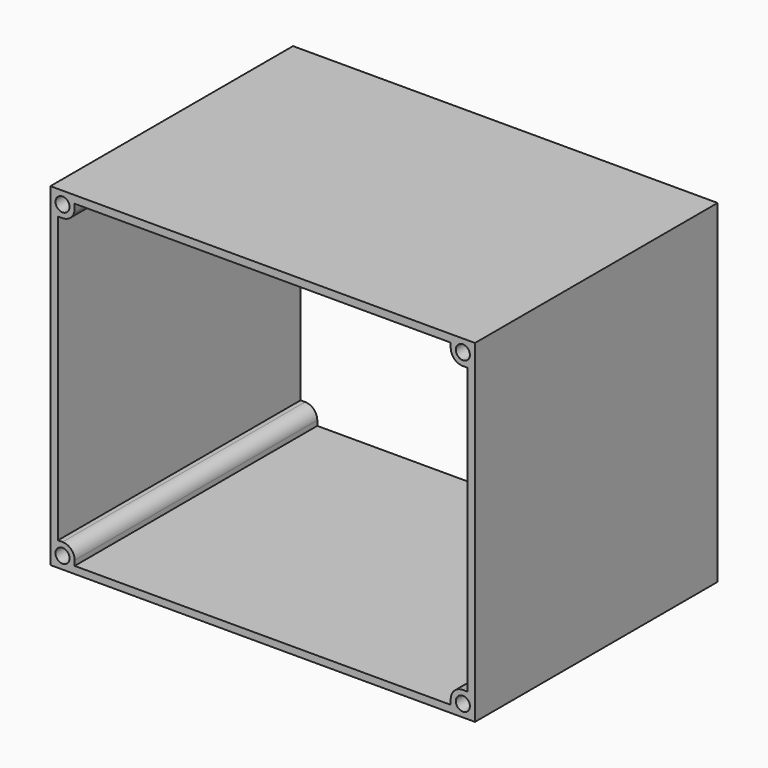
from build123d import *

# Parameters (mm, degrees)
F0_R     = 1.4732
F1_DEPTH = 31.75


with BuildPart() as f1:
    # F0 (on Front) → F1 (new body, symmetric)
    with BuildSketch(Plane.XZ):
        Polygon((-39.37, 34.925), (-44.45, 34.925), (-44.45, 29.845), (-44.45, -29.845), (-44.45, -34.925), (-39.37, -34.925), (39.37, -34.925), (44.45, -34.925), (44.45, -29.845), (44.45, 29.845), (44.45, 34.925), (39.37, 34.925), align=None)
        with Locations((-41.91, -32.385)):
            Circle(F0_R, mode=Mode.SUBTRACT)
        with Locations((41.91, -32.385)):
            Circle(F0_R, mode=Mode.SUBTRACT)
        with BuildLine():
            Line((39.37, -32.385), (39.37, -33.42671))
            Line((39.37, -33.42671), (-39.37, -33.42671))
            Line((-39.37, -33.42671), (-39.37, -32.385))
            ThreePointArc((-39.37, -32.385), (-40.113949, -30.588949), (-41.91, -29.845))
            Line((-41.91, -29.845), (-42.8625, -29.845))
            Line((-42.8625, -29.845), (-42.8625, 29.845))
            Line((-42.8625, 29.845), (-41.91, 29.845))
            ThreePointArc((-41.91, 29.845), (-40.113949, 30.588949), (-39.37, 32.385))
            Line((-39.37, 32.385), (-39.37, 33.3375))
            Line((-39.37, 33.3375), (39.37, 33.3375))
            Line((39.37, 33.3375), (39.37, 32.385))
            ThreePointArc((39.37, 32.385), (40.113949, 30.588949), (41.91, 29.845))
            Line((41.91, 29.845), (42.8625, 29.845))
            Line((42.8625, 29.845), (42.8625, -29.845))
            Line((42.8625, -29.845), (41.91, -29.845))
            ThreePointArc((41.91, -29.845), (40.113949, -30.588949), (39.37, -32.385))
        make_face(mode=Mode.SUBTRACT)
        with Locations((-41.91, 32.385)):
            Circle(F0_R, mode=Mode.SUBTRACT)
        with Locations((41.91, 32.385)):
            Circle(F0_R, mode=Mode.SUBTRACT)
    extrude(amount=F1_DEPTH, both=True)


solid = f1.part
